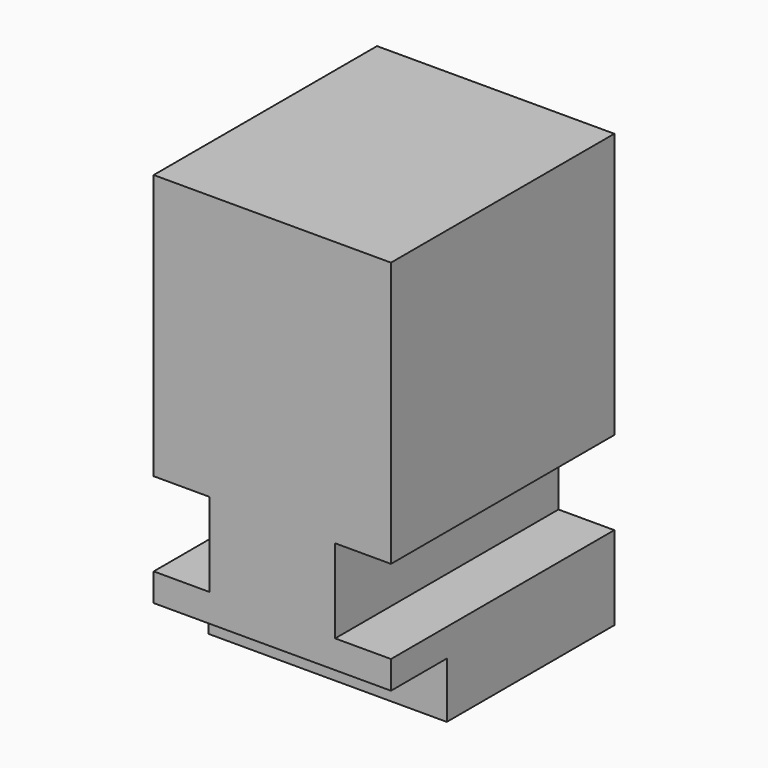
from build123d import *

# Parameters (mm, degrees)
F1_DEPTH = 20
F2_DEPTH = 15


with BuildPart() as f1:
    # F0 (on Front) → F1 (new body)
    with BuildSketch(Plane.XZ):
        Polygon((-66.135588, -4.457321), (-83.135588, -4.457321), (-83.135588, -23.457321), (-79.135588, -23.457321), (-79.135588, -29.457321), (-83.135588, -29.457321), (-83.135588, -31.457321), (-66.135588, -31.457321), (-66.135588, -29.457321), (-70.135588, -29.457321), (-70.135588, -23.457321), (-66.135588, -23.457321), align=None)
    extrude(amount=F1_DEPTH)

    # F0 (on Front) → F2 (join)
    with BuildSketch(Plane.XZ):
        Polygon((-66.135588, -31.457321), (-83.135588, -31.457321), (-83.215661, -35.45652), (-66.135588, -35.45652), align=None)
    extrude(amount=F2_DEPTH)


solid = f1.part
